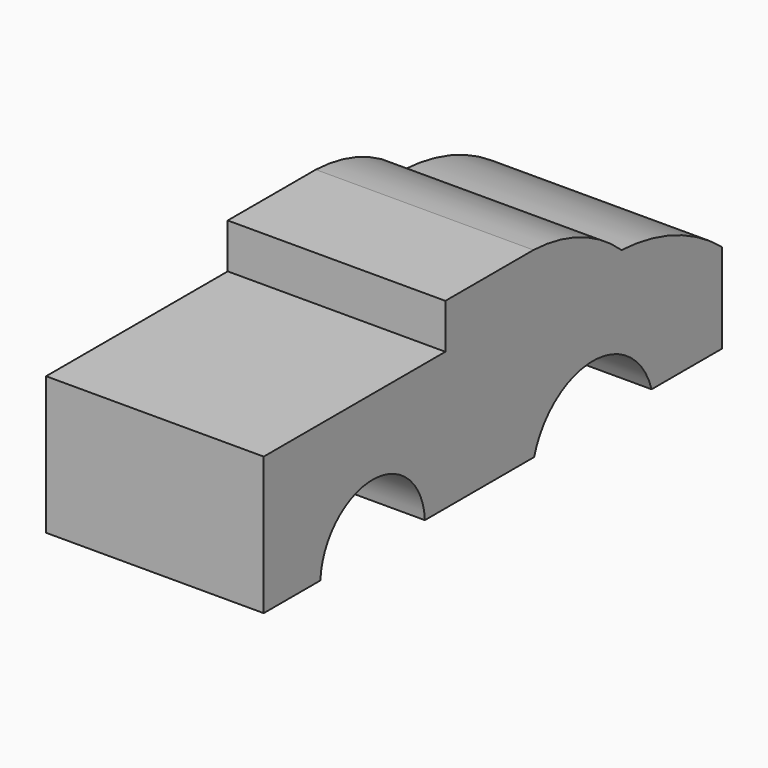
from build123d import *

# Parameters (mm, degrees)
F1_DEPTH = 46.736


with BuildPart() as f1:
    # F0 (on Right) → F1 (new body)
    with BuildSketch(Plane.YZ):
        with BuildLine():
            Line((-10.631341, 9.623196), (-10.631341, 0))
            Line((-10.631341, 0), (-59.388869, 0))
            Line((-59.388869, 0), (-59.388869, -29.602783))
            Line((-59.388869, -29.602783), (-44.175051, -29.602783))
            ThreePointArc((-44.175051, -29.602783), (-30.15268, -16.245136), (-16.13031, -29.602783))
            Line((-16.13031, -29.602783), (13.197524, -29.602783))
            ThreePointArc((13.197524, -29.602783), (28.961235, -17.830947), (44.724945, -29.602783))
            Line((44.724945, -29.602783), (63.604742, -29.602783))
            Line((63.604742, -29.602783), (63.604742, -10.356392))
            ThreePointArc((63.604742, -10.356392), (50.969791, -2.999156), (36.659796, 0))
            ThreePointArc((36.659796, 0), (25.687596, 6.901607), (13.014226, 9.623196))
            Line((13.014226, 9.623196), (-10.631341, 9.623196))
        make_face()
    extrude(amount=F1_DEPTH)


solid = f1.part
